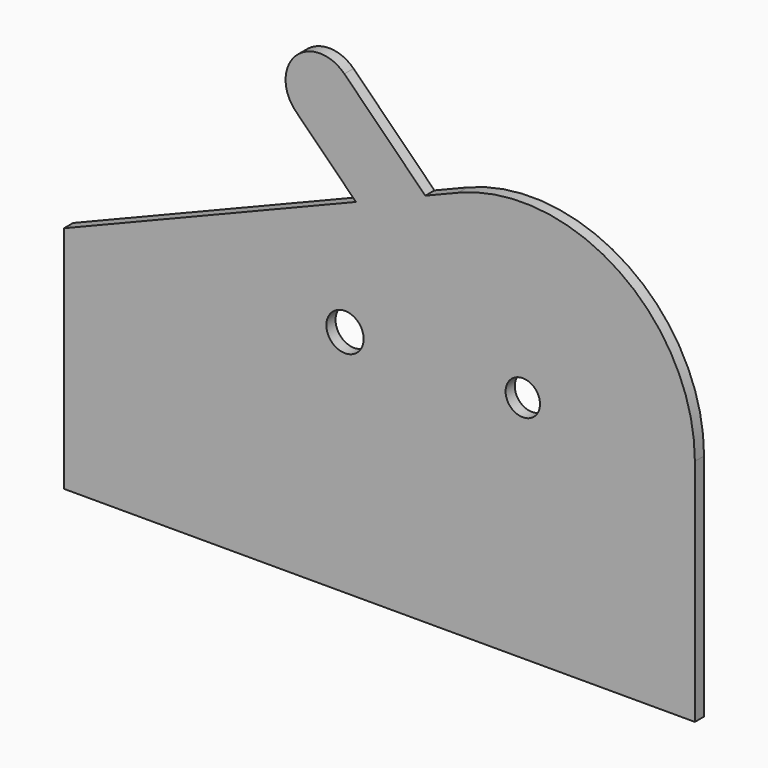
from build123d import *

# Parameters (mm, degrees)
F1_DEPTH = 1
F2_R     = 3
F2_R_2   = 3.25
F3_DEPTH = 2.001
F4_DEPTH = 1


with BuildPart() as f1:
    # F0 (on Front) → F1 (new body, symmetric)
    with BuildSketch(Plane.XZ):
        with BuildLine():
            ThreePointArc((30, 0), (16.77051, 24.874686), (-11.25, 27.810744))
            Line((-11.25, 27.810744), (-16.999625, 25.484906))
            Line((-16.999625, 25.484906), (-29.082446, 20.597165))
            Line((-29.082446, 20.597165), (-80, 0))
            Line((-80, 0), (-80, -40))
            Line((-80, -40), (30, -40))
            Line((30, -40), (30, 0))
        make_face()
    extrude(amount=F1_DEPTH, both=True)

    # F2 (on face) → F3 (cut, through all)
    with BuildSketch(Plane.XZ.offset(1)):
        Circle(F2_R)
        with Locations((-31, 0)):
            Circle(F2_R_2)
    extrude(amount=-F3_DEPTH, mode=Mode.SUBTRACT)

    # F0 (on Front) → F4 (join, symmetric)
    with BuildSketch(Plane.XZ):
        with BuildLine():
            Line((-29.082446, 20.597165), (-16.999625, 25.484906))
            Line((-16.999625, 25.484906), (-31.112698, 39.59798))
            ThreePointArc((-31.112698, 39.59798), (-39.59798, 39.59798), (-39.59798, 31.112698))
            Line((-39.59798, 31.112698), (-29.082446, 20.597165))
        make_face()
    extrude(amount=F4_DEPTH, both=True)


solid = f1.part
